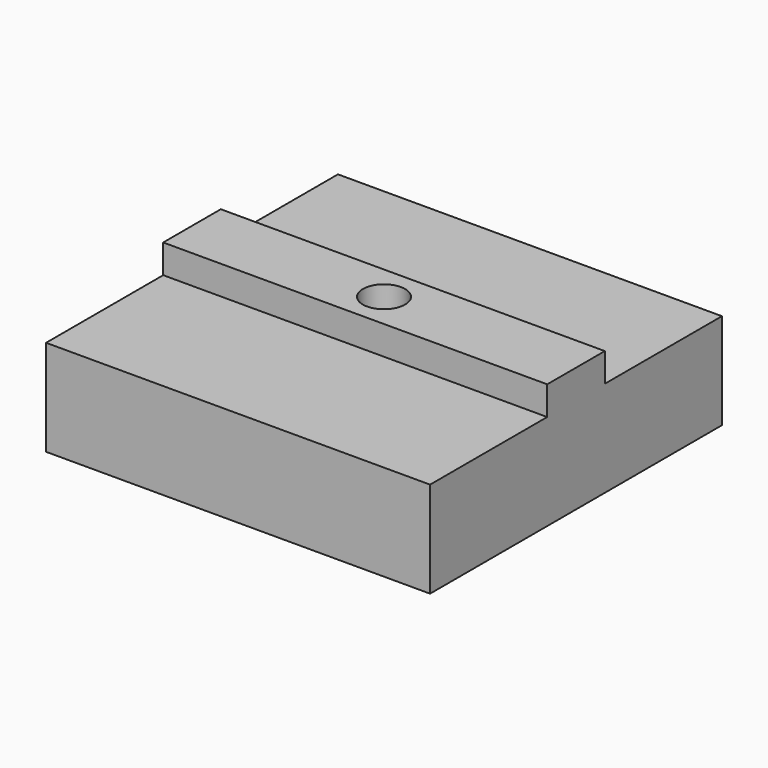
from build123d import *

# Parameters (mm, degrees)
F0_W     = 20
F0_H     = 15.25
F0_H_2   = 7.5
F1_DEPTH = 10
F2_DEPTH = 3
F4_D     = 4.4
F4_DEPTH = 20
F4_TIP   = 1.3218933619


with BuildPart() as f1:
    # F0 (on Top) → F1 (new body)
    with BuildSketch(Plane.XY):
        with Locations((10, 11.375)):
            Rectangle(F0_W, F0_H)
        with Locations((-10, 11.375)):
            Rectangle(F0_W, F0_H)
        with Locations((10, -11.375)):
            Rectangle(F0_W, F0_H)
        with Locations((-10, -11.375)):
            Rectangle(F0_W, F0_H)
        with Locations((10, 0)):
            Rectangle(F0_W, F0_H_2)
        with Locations((-10, 0)):
            Rectangle(F0_W, F0_H_2)
    extrude(amount=-F1_DEPTH)

    # F0 (on Top) → F2 (join)
    with BuildSketch(Plane.XY):
        with Locations((10, 0)):
            Rectangle(F0_W, F0_H_2)
        with Locations((-10, 0)):
            Rectangle(F0_W, F0_H_2)
    extrude(amount=F2_DEPTH)

    # F4
    with Locations(Plane(origin=(0, 0, -10), x_dir=(1, 0, 0), z_dir=(0, 0, -1))):
        with Locations((0, 0)):
            Hole(F4_D / 2, depth=F4_DEPTH)
            with Locations((0, 0, -(F4_DEPTH + F4_TIP / 2))):  # 118° drill point
                Cone(0, F4_D / 2, F4_TIP, mode=Mode.SUBTRACT)


solid = f1.part
